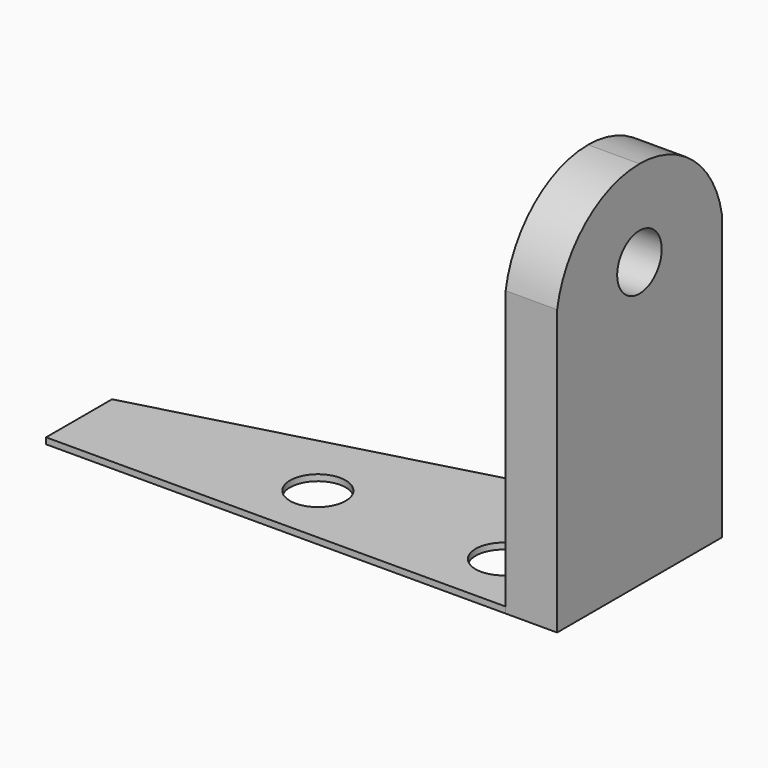
from build123d import *

# Parameters (mm, degrees)
F0_W     = 6.35
F0_H     = 25.4
F1_DEPTH = 45.72
F2_DEPTH = 0.762
F4_DEPTH = 25.4
F3_R     = 3.429
F5_DEPTH = 25.4
F6_R     = 3.429
F7_DEPTH = 25.4


with BuildPart() as f1:
    # F0 (on Top) → F1 (new body)
    with BuildSketch(Plane.XY):
        with Locations((-3.175, -4.690345)):
            Rectangle(F0_W, F0_H)
    extrude(amount=F1_DEPTH)

    # F0 (on Top) → F2 (join)
    with BuildSketch(Plane.XY):
        with Locations((-3.175, -4.690345)):
            Rectangle(F0_W, F0_H)
        Polygon((-62.9412, -17.478447), (-6.35, -17.390345), (-6.35, 8.009655), (-62.9412, -7.318447), align=None)
    extrude(amount=F2_DEPTH)

    # F3 (on face) → F4 (cut)
    with BuildSketch(Plane.YZ):
        with BuildLine():
            ThreePointArc((-4.690345, 45.72), (3.602667, 42.69911), (8.009655, 35.052))
            Line((8.009655, 35.052), (8.009655, 45.72))
            Line((8.009655, 45.72), (-4.690345, 45.72))
        make_face()
        with BuildLine():
            ThreePointArc((-17.390345, 35.052), (-12.983358, 42.69911), (-4.690345, 45.72))
            Line((-4.690345, 45.72), (-17.390345, 45.72))
            Line((-17.390345, 45.72), (-17.390345, 35.052))
        make_face()
    extrude(amount=-F4_DEPTH, mode=Mode.SUBTRACT)

    # F3 (on face) → F5 (cut)
    with BuildSketch(Plane.YZ):
        with Locations((-4.700625, 35.052)):
            Circle(F3_R)
    extrude(amount=-F5_DEPTH, mode=Mode.SUBTRACT)

    # F6 (on face) → F7 (cut)
    with BuildSketch(Plane.XY.offset(0.762)):
        with Locations((-35.56, -9.815811)):
            Circle(F6_R)
        with Locations((-12.7, -9.780222)):
            Circle(F6_R)
    extrude(amount=-F7_DEPTH, mode=Mode.SUBTRACT)


solid = f1.part
